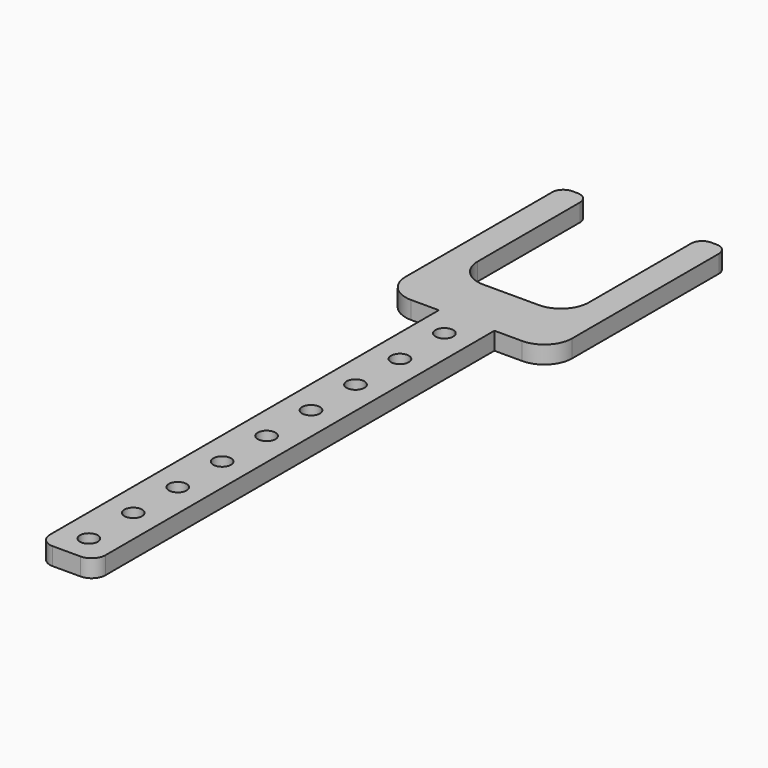
from build123d import *

# Parameters (mm, degrees)
F0_R     = 1.6
F1_DEPTH = 3.175


with BuildPart() as f1:
    # F0 (on Top) → F1 (new body)
    with BuildSketch(Plane.XY):
        with BuildLine():
            ThreePointArc((-15, 5), (-13.535534, 1.464466), (-10, 0))
            Line((-10, 0), (-5, 0))
            Line((-5, 0), (-5, -87.5))
            ThreePointArc((-5, -87.5), (-4.267767, -89.267767), (-2.5, -90))
            Line((-2.5, -90), (0, -90))
            Line((0, -90), (2.5, -90))
            ThreePointArc((2.5, -90), (4.267767, -89.267767), (5, -87.5))
            Line((5, -87.5), (5, 0))
            Line((5, 0), (10, 0))
            ThreePointArc((10, 0), (13.535534, 1.464466), (15, 5))
            Line((15, 5), (15, 10))
            Line((15, 10), (15, 38))
            ThreePointArc((15, 38), (14.414214, 39.414214), (13, 40))
            Line((13, 40), (12, 40))
            ThreePointArc((12, 40), (10.585786, 39.414214), (10, 38))
            Line((10, 38), (10, 15))
            ThreePointArc((10, 15), (8.535534, 11.464466), (5, 10))
            Line((5, 10), (-5, 10))
            ThreePointArc((-5, 10), (-8.535534, 11.464466), (-10, 15))
            Line((-10, 15), (-10, 38))
            ThreePointArc((-10, 38), (-10.585786, 39.414214), (-12, 40))
            Line((-12, 40), (-13, 40))
            ThreePointArc((-13, 40), (-14.414214, 39.414214), (-15, 38))
            Line((-15, 38), (-15, 10))
            Line((-15, 10), (-15, 5))
        make_face()
        with Locations((0, -85)):
            Circle(F0_R, mode=Mode.SUBTRACT)
        with Locations((0, -75)):
            Circle(F0_R, mode=Mode.SUBTRACT)
        with Locations((0, -65)):
            Circle(F0_R, mode=Mode.SUBTRACT)
        with Locations((0, -55)):
            Circle(F0_R, mode=Mode.SUBTRACT)
        with Locations((0, -45)):
            Circle(F0_R, mode=Mode.SUBTRACT)
        with Locations((0, -35)):
            Circle(F0_R, mode=Mode.SUBTRACT)
        with Locations((0, -25)):
            Circle(F0_R, mode=Mode.SUBTRACT)
        with Locations((0, -15)):
            Circle(F0_R, mode=Mode.SUBTRACT)
        with Locations((0, -5)):
            Circle(F0_R, mode=Mode.SUBTRACT)
    extrude(amount=F1_DEPTH)


solid = f1.part
